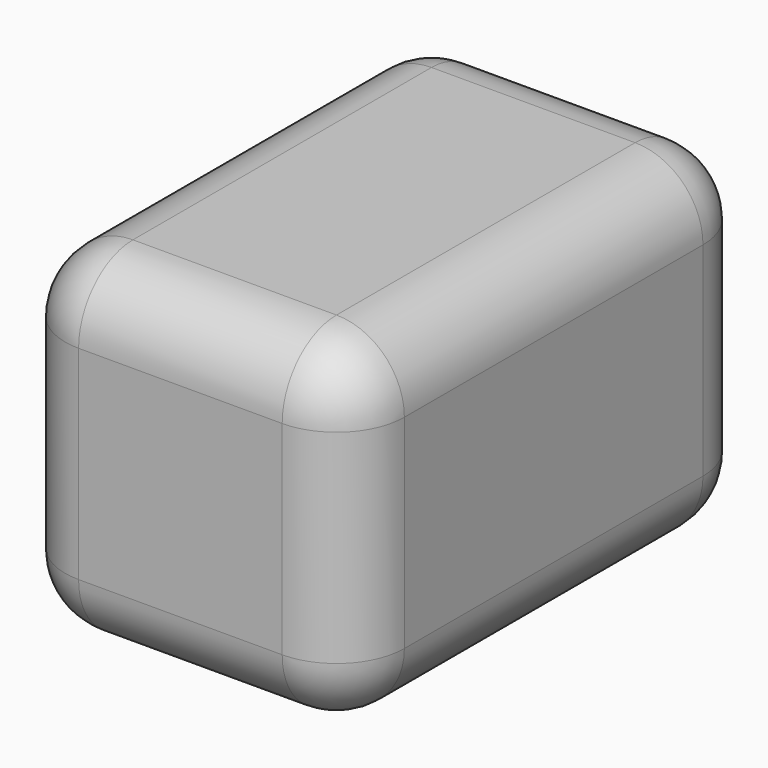
from build123d import *

# Parameters (mm, degrees)
F0_W     = 25.4
F0_H     = 38.1
F1_DEPTH = 25.4
F2_DEPTH = 25.4
F3_R     = 5.08
F4_R     = 5.08


with BuildPart() as f1:
    # F0 (on Top) → F1 (new body)
    with BuildSketch(Plane.XY):
        Rectangle(F0_W, F0_H)
    extrude(amount=F1_DEPTH)

    # F0 (on Top) → F2 (join)
    with BuildSketch(Plane.XY):
        Rectangle(F0_W, F0_H)
    extrude(amount=F2_DEPTH)

    # F3
    f3_edges = [f1.edges().sort_by_distance(p)[0] for p in [
        (-12.7, 0, 25.4),
        (12.7, 0, 25.4),
        (-12.7, 0, 0),
        (12.7, 0, 0),
    ]]
    fillet(f3_edges, radius=F3_R)

    # F4
    f4_edges = [f1.edges().sort_by_distance(p)[0] for p in [
        (0, -19.05, 25.4),
        (-12.7, -19.05, 12.7),
        (12.7, -19.05, 12.7),
        (-12.7, 19.05, 12.7),
        (12.7, 19.05, 12.7),
    ]]
    fillet(f4_edges, radius=F4_R)


solid = f1.part
